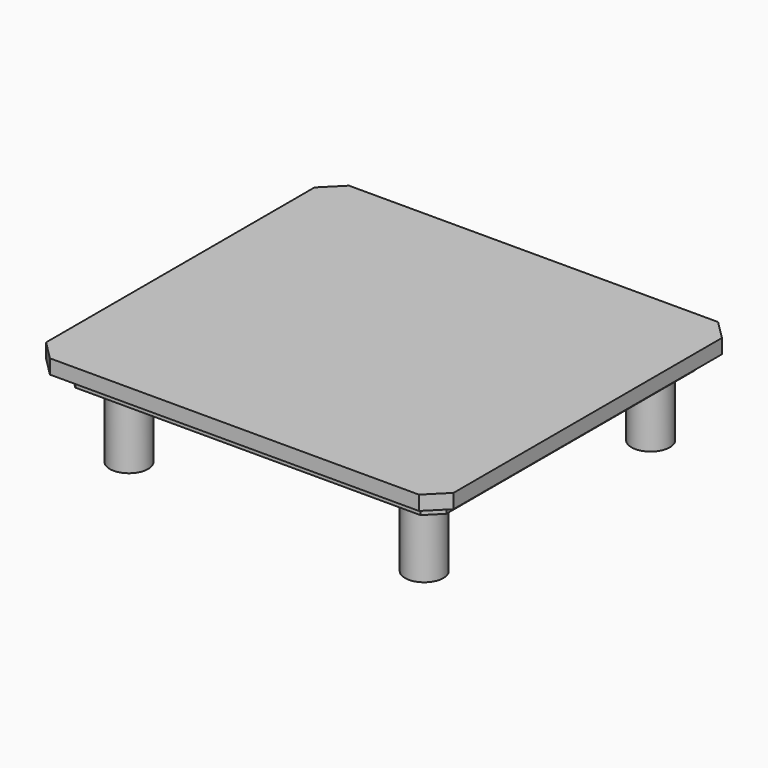
from build123d import *

# Parameters (mm, degrees)
PAD_DEPTH       = 3
SKETCH001_W     = 78
SKETCH001_H     = 71
PAD001_DEPTH    = 3
CHAMFER_SIZE    = 3
SKETCH002_W     = 74
SKETCH002_H     = 67
POCKET_DEPTH    = 3
CHAMFER001_SIZE = 2
SKETCH003_R     = 4
SKETCH003_R_2   = 1.5
PAD002_DEPTH    = 18


with BuildPart() as part:
    # Sketch → Pad (new body)
    with BuildSketch(Plane.XY):
        Polygon((38.5, 39), (-38.5, 39), (-42.5, 35), (-42.5, -35), (-38.5, -39), (38.5, -39), (42.5, -35), (42.5, 35), align=None)
    extrude(amount=PAD_DEPTH)

    # Sketch001 (on Face9 of Pad) → Pad001 (join)
    with BuildSketch(Plane(origin=(0, 0, 0), x_dir=(1, 0, 0), z_dir=(0, 0, -1))):
        Rectangle(SKETCH001_W, SKETCH001_H)
    extrude(amount=PAD001_DEPTH)

    # Chamfer
    chamfer_edges = [part.edges().sort_by_distance(p)[0] for p in [
        (39, 35.5, -1.5),
        (-39, 35.5, -1.5),
        (-39, -35.5, -1.5),
        (39, -35.5, -1.5),
    ]]
    chamfer(chamfer_edges, length=CHAMFER_SIZE)

    # Sketch002 (on Face18 of Chamfer) → Pocket (cut)
    with BuildSketch(Plane(origin=(0, 0, -3), x_dir=(1, 0, 0), z_dir=(0, 0, -1))):
        Rectangle(SKETCH002_W, SKETCH002_H)
    extrude(amount=-POCKET_DEPTH, mode=Mode.SUBTRACT)

    # Chamfer001
    chamfer001_edges = [part.edges().sort_by_distance(p)[0] for p in [
        (37, 33.5, -1.5),
        (-37, 33.5, -1.5),
        (-37, -33.5, -1.5),
        (37, -33.5, -1.5),
    ]]
    chamfer(chamfer001_edges, length=CHAMFER001_SIZE)

    # Sketch003 (on Face18 of Chamfer001) → Pad002 (join)
    with BuildSketch(Plane(origin=(0, 0, 0), x_dir=(1, 0, 0), z_dir=(0, 0, -1))):
        with Locations((-30.7975, 28.01)):
            Circle(SKETCH003_R)
        with Locations((-30.7975, 28.01)):
            Circle(SKETCH003_R_2, mode=Mode.SUBTRACT)
        with Locations((30.7975, 28.01)):
            Circle(SKETCH003_R)
        with Locations((30.7975, 28.01)):
            Circle(SKETCH003_R_2, mode=Mode.SUBTRACT)
        with Locations((-30.7975, -31.045)):
            Circle(SKETCH003_R)
        with Locations((-30.7975, -31.045)):
            Circle(SKETCH003_R_2, mode=Mode.SUBTRACT)
        with Locations((30.7975, -31.045)):
            Circle(SKETCH003_R)
        with Locations((30.7975, -31.045)):
            Circle(SKETCH003_R_2, mode=Mode.SUBTRACT)
    extrude(amount=PAD002_DEPTH)


solid = part.part
